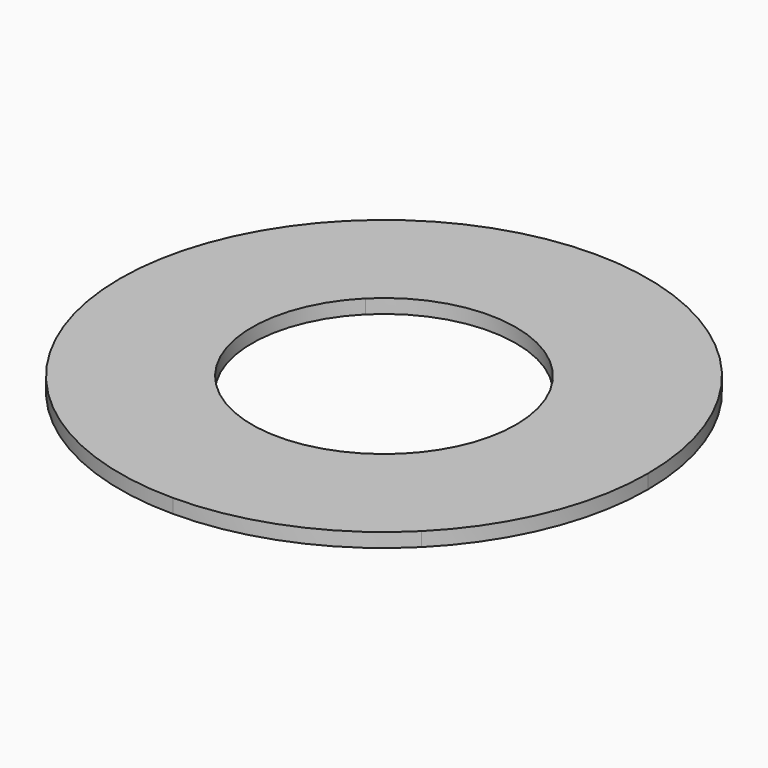
from build123d import *

# Parameters (mm, degrees)
F1_DEPTH = 1.6


with BuildPart() as f1:
    # F0 (on Top) → F1 (new body)
    with BuildSketch(Plane.XY):
        with BuildLine():
            ThreePointArc((8.7867965644, -8.7867965644), (2.2836140247, -18.519497029), (0, -30))
            ThreePointArc((0, -30), (8.7867965644, -51.2132034356), (30, -60))
            ThreePointArc((30, -60), (41.480502971, -57.7163859753), (51.2132034356, -51.2132034356))
            Line((51.2132034356, -51.2132034356), (40.6066017178, -40.6066017178))
            ThreePointArc((40.6066017178, -40.6066017178), (19.3933982822, -40.6066017178), (19.3933982822, -19.3933982822))
            Line((19.3933982822, -19.3933982822), (8.7867965644, -8.7867965644))
        make_face()
        with BuildLine():
            ThreePointArc((60, -30), (51.2132034356, -8.7867965644), (30, 0))
            ThreePointArc((30, 0), (18.519497029, -2.2836140247), (8.7867965644, -8.7867965644))
            Line((8.7867965644, -8.7867965644), (19.3933982822, -19.3933982822))
            ThreePointArc((19.3933982822, -19.3933982822), (35.7402514855, -16.1418070123), (45, -30))
            ThreePointArc((45, -30), (43.8581929877, -35.7402514855), (40.6066017178, -40.6066017178))
            Line((40.6066017178, -40.6066017178), (51.2132034356, -51.2132034356))
            ThreePointArc((51.2132034356, -51.2132034356), (57.7163859753, -41.480502971), (60, -30))
        make_face()
    extrude(amount=F1_DEPTH)


solid = f1.part
